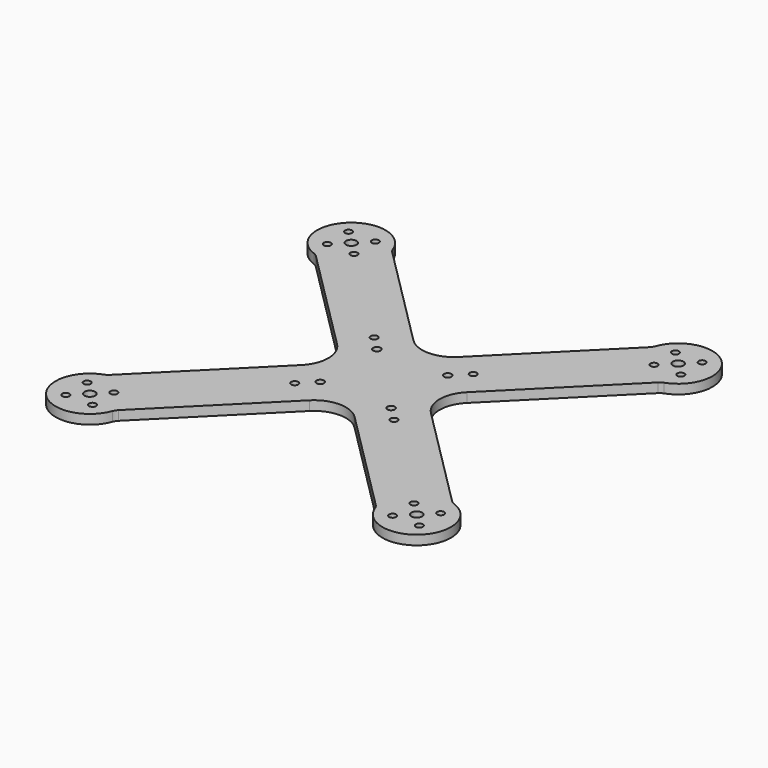
from build123d import *

# Parameters (mm, degrees)
F0_R     = 1.5
F0_R_2   = 2.25
F0_R_3   = 1.6
F1_DEPTH = 4


with BuildPart() as f1:
    # F0 (on Top) → F1 (new body)
    with BuildSketch(Plane.XY):
        with BuildLine():
            ThreePointArc((-72.413366, -54.452854), (-73.255473, -55.129855), (-74.223361, -55.610135))
            ThreePointArc((-74.223361, -55.610135), (-79.472348, -79.472348), (-55.610135, -74.223361))
            ThreePointArc((-55.610135, -74.223361), (-55.129855, -73.255473), (-54.452854, -72.413366))
            Line((-54.452854, -72.413366), (-9.539488, -27.5))
            ThreePointArc((-9.539488, -27.5), (0, -23.548615), (9.539488, -27.5))
            Line((9.539488, -27.5), (54.452854, -72.413366))
            ThreePointArc((54.452854, -72.413366), (55.129855, -73.255473), (55.610135, -74.223361))
            ThreePointArc((55.610135, -74.223361), (79.472348, -79.472348), (74.223361, -55.610135))
            ThreePointArc((74.223361, -55.610135), (73.255473, -55.129855), (72.413366, -54.452854))
            Line((72.413366, -54.452854), (27.5, -9.539488))
            ThreePointArc((27.5, -9.539488), (23.548615, 0), (27.5, 9.539488))
            Line((27.5, 9.539488), (72.413366, 54.452854))
            ThreePointArc((72.413366, 54.452854), (73.255473, 55.129855), (74.223361, 55.610135))
            ThreePointArc((74.223361, 55.610135), (79.472348, 79.472348), (55.610135, 74.223361))
            ThreePointArc((55.610135, 74.223361), (55.129855, 73.255473), (54.452854, 72.413366))
            Line((54.452854, 72.413366), (9.539488, 27.5))
            ThreePointArc((9.539488, 27.5), (0, 23.548615), (-9.539488, 27.5))
            Line((-9.539488, 27.5), (-54.452854, 72.413366))
            ThreePointArc((-54.452854, 72.413366), (-55.129855, 73.255473), (-55.610135, 74.223361))
            ThreePointArc((-55.610135, 74.223361), (-79.472348, 79.472348), (-74.223361, 55.610135))
            ThreePointArc((-74.223361, 55.610135), (-73.255473, 55.129855), (-72.413366, 54.452854))
            Line((-72.413366, 54.452854), (-27.5, 9.539488))
            ThreePointArc((-27.5, 9.539488), (-23.548615, 0), (-27.5, -9.539488))
            Line((-27.5, -9.539488), (-72.413366, -54.452854))
        make_face()
        with Locations((-74.876154, -74.876154)):
            Circle(F0_R, mode=Mode.SUBTRACT)
        with Locations((-63.562446, -74.876154)):
            Circle(F0_R, mode=Mode.SUBTRACT)
        with Locations((-74.876154, -63.562446)):
            Circle(F0_R, mode=Mode.SUBTRACT)
        with Locations((-69.2193, -69.2193)):
            Circle(F0_R_2, mode=Mode.SUBTRACT)
        with Locations((-63.562446, -63.562446)):
            Circle(F0_R, mode=Mode.SUBTRACT)
        with Locations((-21, -21)):
            Circle(F0_R, mode=Mode.SUBTRACT)
        with Locations((-15, -15)):
            Circle(F0_R_3, mode=Mode.SUBTRACT)
        with Locations((63.562446, -74.876154)):
            Circle(F0_R, mode=Mode.SUBTRACT)
        with Locations((74.876154, -74.876154)):
            Circle(F0_R, mode=Mode.SUBTRACT)
        with Locations((69.2193, -69.2193)):
            Circle(F0_R_2, mode=Mode.SUBTRACT)
        with Locations((63.562446, -63.562446)):
            Circle(F0_R, mode=Mode.SUBTRACT)
        with Locations((74.876154, -63.562446)):
            Circle(F0_R, mode=Mode.SUBTRACT)
        with Locations((21, -21)):
            Circle(F0_R, mode=Mode.SUBTRACT)
        with Locations((15, -15)):
            Circle(F0_R_3, mode=Mode.SUBTRACT)
        with Locations((-15, 15)):
            Circle(F0_R_3, mode=Mode.SUBTRACT)
        with Locations((-21, 21)):
            Circle(F0_R, mode=Mode.SUBTRACT)
        with Locations((-74.876154, 63.562446)):
            Circle(F0_R, mode=Mode.SUBTRACT)
        with Locations((-63.562446, 63.562446)):
            Circle(F0_R, mode=Mode.SUBTRACT)
        with Locations((-69.2193, 69.2193)):
            Circle(F0_R_2, mode=Mode.SUBTRACT)
        with Locations((-74.876154, 74.876154)):
            Circle(F0_R, mode=Mode.SUBTRACT)
        with Locations((-63.562446, 74.876154)):
            Circle(F0_R, mode=Mode.SUBTRACT)
        with Locations((15, 15)):
            Circle(F0_R_3, mode=Mode.SUBTRACT)
        with Locations((21, 21)):
            Circle(F0_R, mode=Mode.SUBTRACT)
        with Locations((63.562446, 63.562446)):
            Circle(F0_R, mode=Mode.SUBTRACT)
        with Locations((69.2193, 69.2193)):
            Circle(F0_R_2, mode=Mode.SUBTRACT)
        with Locations((74.876154, 63.562446)):
            Circle(F0_R, mode=Mode.SUBTRACT)
        with Locations((63.562446, 74.876154)):
            Circle(F0_R, mode=Mode.SUBTRACT)
        with Locations((74.876154, 74.876154)):
            Circle(F0_R, mode=Mode.SUBTRACT)
    extrude(amount=F1_DEPTH)


solid = f1.part
